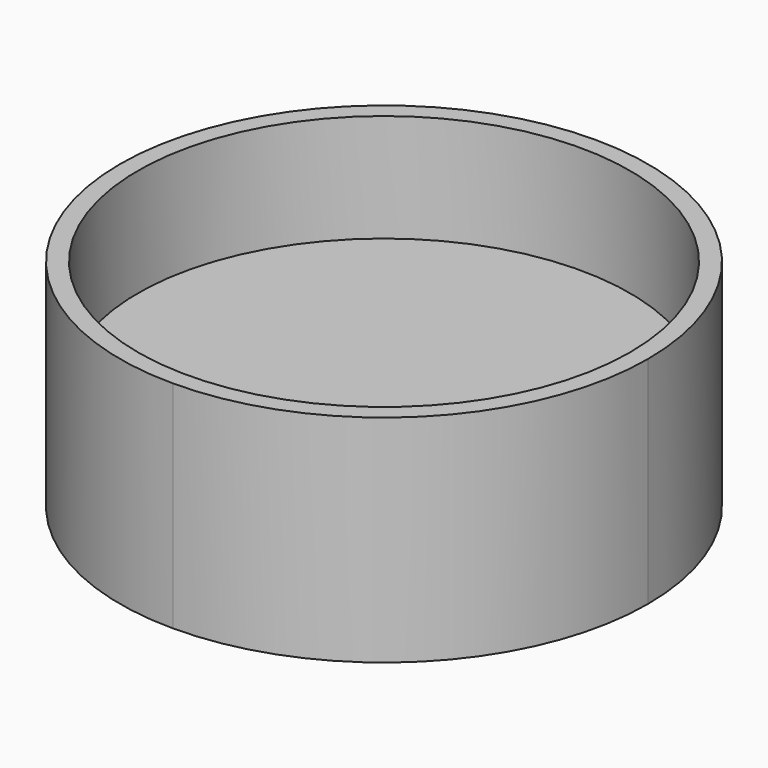
from build123d import *

# Parameters (mm, degrees)
F0_W     = 63.5
F0_H     = 63.5
F1_DEPTH = 25.4
F3_DEPTH = 25.4
F4_R     = 28.974598
F5_DEPTH = 12.7


with BuildPart() as f1:
    # F0 (on Top) → F1 (new body)
    with BuildSketch(Plane.XY):
        with Locations((31.75, 31.75)):
            Rectangle(F0_W, F0_H)
    extrude(amount=F1_DEPTH)

    # F2 (on face) → F3 (cut)
    with BuildSketch(Plane.XY.offset(25.4)):
        with BuildLine():
            Line((31.75, 62.834862), (31.75, 63.5))
            Line((31.75, 63.5), (0, 63.5))
            Line((0, 63.5), (0, 31.75))
            Line((0, 31.75), (0.665138, 31.75))
            ThreePointArc((0.665138, 31.75), (9.769684, 53.730316), (31.75, 62.834862))
        make_face()
        with BuildLine():
            Line((63.5, 63.5), (31.75, 63.5))
            Line((31.75, 63.5), (31.75, 62.834862))
            ThreePointArc((31.75, 62.834862), (53.730316, 53.730316), (62.834862, 31.75))
            Line((62.834862, 31.75), (63.5, 31.75))
            Line((63.5, 31.75), (63.5, 63.5))
        make_face()
        with BuildLine():
            Line((63.5, 31.75), (62.834862, 31.75))
            ThreePointArc((62.834862, 31.75), (53.730316, 9.769684), (31.75, 0.665138))
            Line((31.75, 0.665138), (31.75, 0))
            Line((31.75, 0), (63.5, 0))
            Line((63.5, 0), (63.5, 31.75))
        make_face()
        with BuildLine():
            ThreePointArc((31.75, 0.665138), (9.769684, 9.769684), (0.665138, 31.75))
            Line((0.665138, 31.75), (0, 31.75))
            Line((0, 31.75), (0, 0))
            Line((0, 0), (31.75, 0))
            Line((31.75, 0), (31.75, 0.665138))
        make_face()
    extrude(amount=-F3_DEPTH, mode=Mode.SUBTRACT)

    # F4 (on face) → F5 (cut)
    with BuildSketch(Plane.XY.offset(25.4)):
        with Locations((31.75, 31.75)):
            Circle(F4_R)
    extrude(amount=-F5_DEPTH, mode=Mode.SUBTRACT)


solid = f1.part
